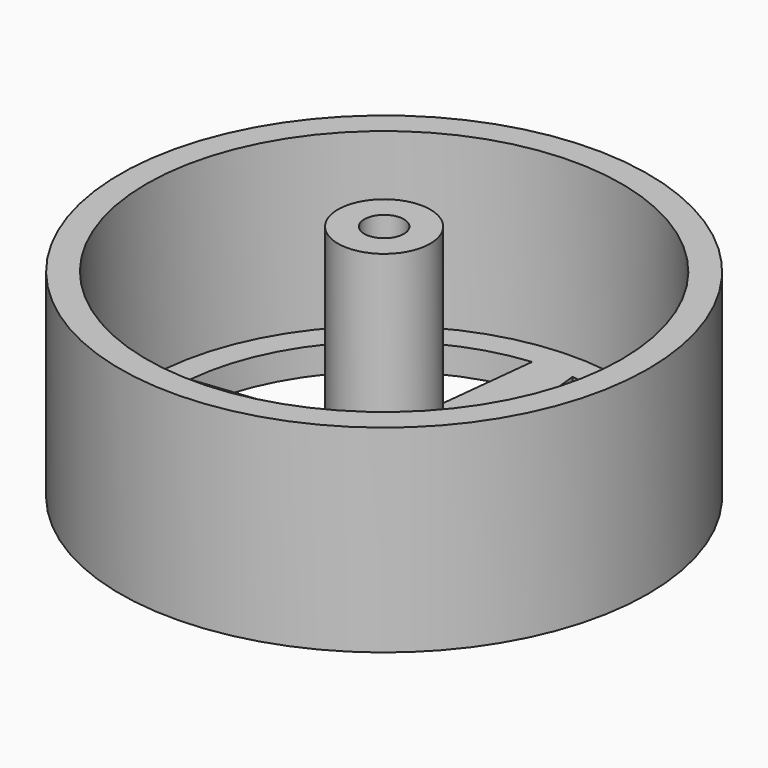
from build123d import *

# Parameters (mm, degrees)
F0_R     = 20
F1_DEPTH = 15
F2_R     = 18
F3_DEPTH = 13
F4_R     = 3.5
F4_R_2   = 1.5
F5_DEPTH = 16
F7_DEPTH = 2


with BuildPart() as f1:
    # F0 (on Top) → F1 (new body)
    with BuildSketch(Plane.XY):
        Circle(F0_R)
    extrude(amount=F1_DEPTH)

    # F2 (on face) → F3 (cut)
    with BuildSketch(Plane.XY.offset(15)):
        Circle(F2_R)
    extrude(amount=-F3_DEPTH, mode=Mode.SUBTRACT)

    # F4 (on face) → F5 (join)
    with BuildSketch(Plane.XY.offset(2)):
        Circle(F4_R)
        Circle(F4_R_2, mode=Mode.SUBTRACT)
    extrude(amount=F5_DEPTH)

    # F6 (on face) → F7 (cut)
    with BuildSketch(Plane(origin=(0, 0, 0), x_dir=(1, 0, 0), z_dir=(0, 0, -1))):
        with BuildLine():
            Line((-15.926695243, 1.5298296101), (-2.9445433001, 2.9445433001))
            Line((-2.9445433001, 2.9445433001), (-1.5298296101, 15.926695243))
            ThreePointArc((-1.5298296101, 15.926695243), (-11.313708499, 11.313708499), (-15.926695243, 1.5298296101))
        make_face()
        with BuildLine():
            Line((-1.5298296101, -15.926695243), (-2.9445433001, -2.9445433001))
            Line((-2.9445433001, -2.9445433001), (-15.926695243, -1.5298296101))
            ThreePointArc((-15.926695243, -1.5298296101), (-11.313708499, -11.313708499), (-1.5298296101, -15.926695243))
        make_face()
        with BuildLine():
            Line((15.926695243, -1.5298296101), (2.9445433001, -2.9445433001))
            Line((2.9445433001, -2.9445433001), (1.5298296101, -15.926695243))
            ThreePointArc((1.5298296101, -15.926695243), (11.313708499, -11.313708499), (15.926695243, -1.5298296101))
        make_face()
        with BuildLine():
            Line((1.5298296101, 15.926695243), (2.9445433001, 2.9445433001))
            Line((2.9445433001, 2.9445433001), (15.926695243, 1.5298296101))
            ThreePointArc((15.926695243, 1.5298296101), (11.313708499, 11.313708499), (1.5298296101, 15.926695243))
        make_face()
    extrude(amount=-F7_DEPTH, mode=Mode.SUBTRACT)


solid = f1.part
